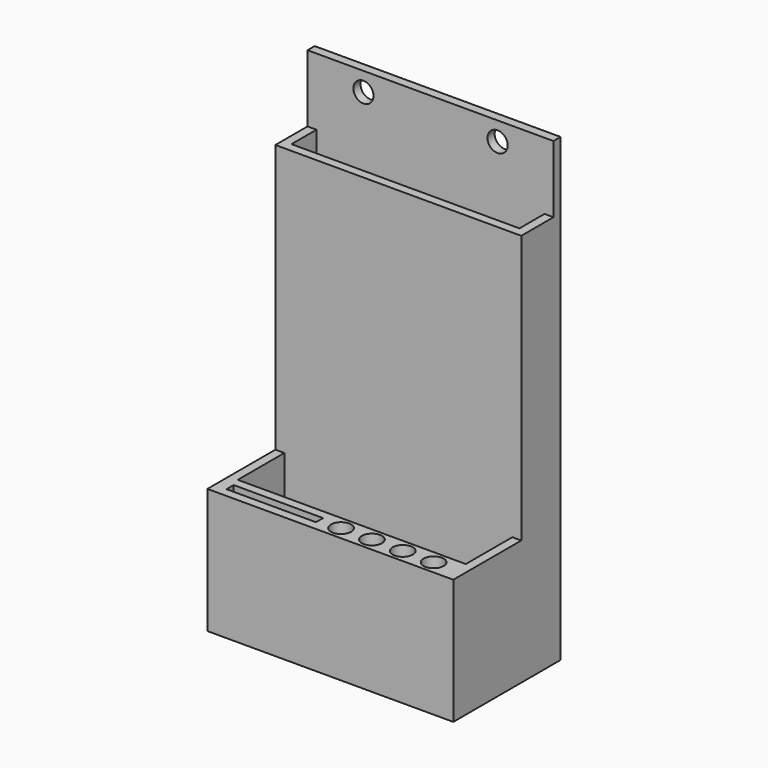
from build123d import *

# Parameters (mm, degrees)
F0_W     = 55
F0_H     = 30
F1_DEPTH = 3
F3_DEPTH = 100
F2_W     = 2
F2_H     = 7
F4_DEPTH = 85
F2_H_2   = 13
F5_DEPTH = 25
F6_R     = 2.25
F6_W     = 20
F6_H     = 2
F7_DEPTH = 25
F8_R     = 2.25
F9_DEPTH = 2.001


with BuildPart() as f1:
    # F0 (on Top) → F1 (new body)
    with BuildSketch(Plane.XY):
        Rectangle(F0_W, F0_H)
    extrude(amount=F1_DEPTH)

    # F2 (on face) → F3 (join)
    with BuildSketch(Plane.XY.offset(3)):
        Polygon((27.5, 15), (-27.5, 15), (-27.5, 13), (-25.5, 13), (25.5, 13), (27.5, 13), align=None)
    extrude(amount=F3_DEPTH)

    # F2 (on face) → F4 (join)
    with BuildSketch(Plane.XY.offset(3)):
        with Locations((-26.5, 9.5)):
            Rectangle(F2_W, F2_H)
        Polygon((-25.5, 6), (-27.5, 6), (-27.5, 4), (-25.5, 4), (25.5, 4), (27.5, 4), (27.5, 6), (25.5, 6), align=None)
        with Locations((26.5, 9.5)):
            Rectangle(F2_W, F2_H)
    extrude(amount=F4_DEPTH)

    # F2 (on face) → F5 (join)
    with BuildSketch(Plane.XY.offset(3)):
        with Locations((26.5, -2.5)):
            Rectangle(F2_W, F2_H_2)
        Polygon((-25.5, -9), (-27.5, -9), (-27.5, -15), (27.5, -15), (27.5, -9), (25.5, -9), align=None)
        with Locations((-26.5, -2.5)):
            Rectangle(F2_W, F2_H_2)
    extrude(amount=F5_DEPTH)

    # F6 (on face) → F7 (cut)
    with BuildSketch(Plane.XY.offset(28)):
        with Locations((0, -12)):
            Circle(F6_R)
        with Locations((6.9, -12)):
            Circle(F6_R)
        with Locations((13.8, -12)):
            Circle(F6_R)
        with Locations((20.7, -12)):
            Circle(F6_R)
        with Locations((-14.826222, -12)):
            Rectangle(F6_W, F6_H)
    extrude(amount=-F7_DEPTH, mode=Mode.SUBTRACT)

    # F8 (on face) → F9 (cut, through all)
    with BuildSketch(Plane.XZ.offset(-13)):
        with Locations((-15, 98.812126)):
            Circle(F8_R)
        with Locations((15, 98.812126)):
            Circle(F8_R)
    extrude(amount=-F9_DEPTH, mode=Mode.SUBTRACT)


solid = f1.part
